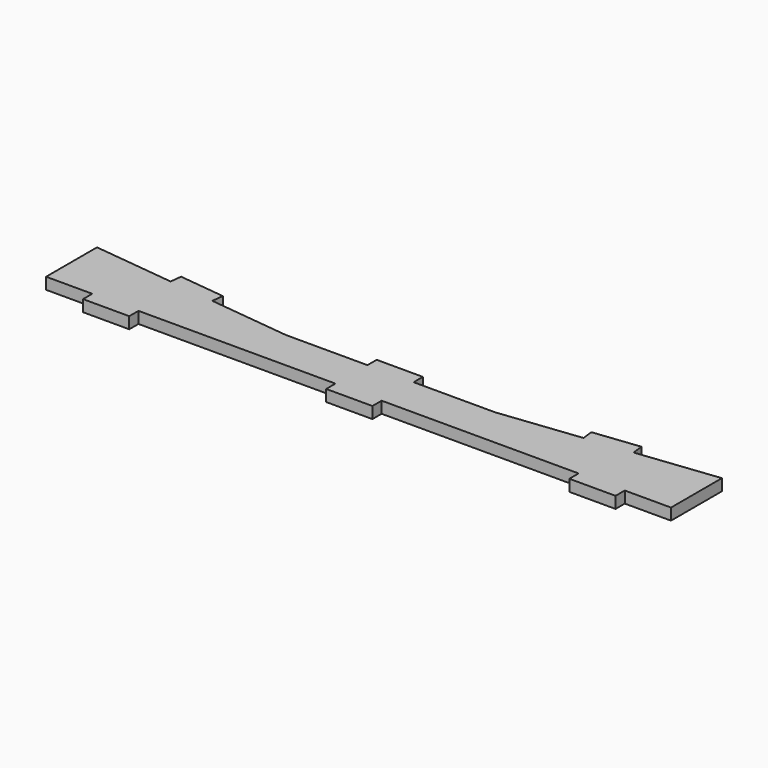
from build123d import *

# Parameters (mm, degrees)
F0_W     = 25.4
F0_H     = 6.35
F1_DEPTH = 6.35


with BuildPart() as f1:
    # F0 (on Top) → F1 (new body)
    with BuildSketch(Plane.XY):
        Polygon((-171.779249, 35), (-171.779249, 0), (-146.379249, 0), (-120.979249, 0), (-12.7, 0), (12.7, 0), (120.979249, 0), (146.379249, 0), (171.779249, 0), (171.779249, 35.0012), (127.261008, 29.934842), (102.02391, 27.062758), (57.505668, 21.9964), (12.700068, 21.9964), (-12.699932, 21.9964), (-57.505532, 21.9964), (-102.023826, 27.06229), (-127.260955, 29.93411), align=None)
        with Locations((-133.679249, -3.175)):
            Rectangle(F0_W, F0_H)
        Polygon((-126.543, 36.243392), (-127.260955, 29.93411), (-102.023826, 27.06229), (-101.305871, 33.371572), align=None)
        with Locations((0, -3.175)):
            Rectangle(F0_W, F0_H)
        with Locations((133.679249, -3.175)):
            Rectangle(F0_W, F0_H)
        with Locations((6.8e-05, 25.1714)):
            Rectangle(F0_W, F0_H)
        Polygon((101.305888, 33.372032), (102.02391, 27.062758), (127.261008, 29.934842), (126.542987, 36.244117), align=None)
    extrude(amount=F1_DEPTH)


solid = f1.part
